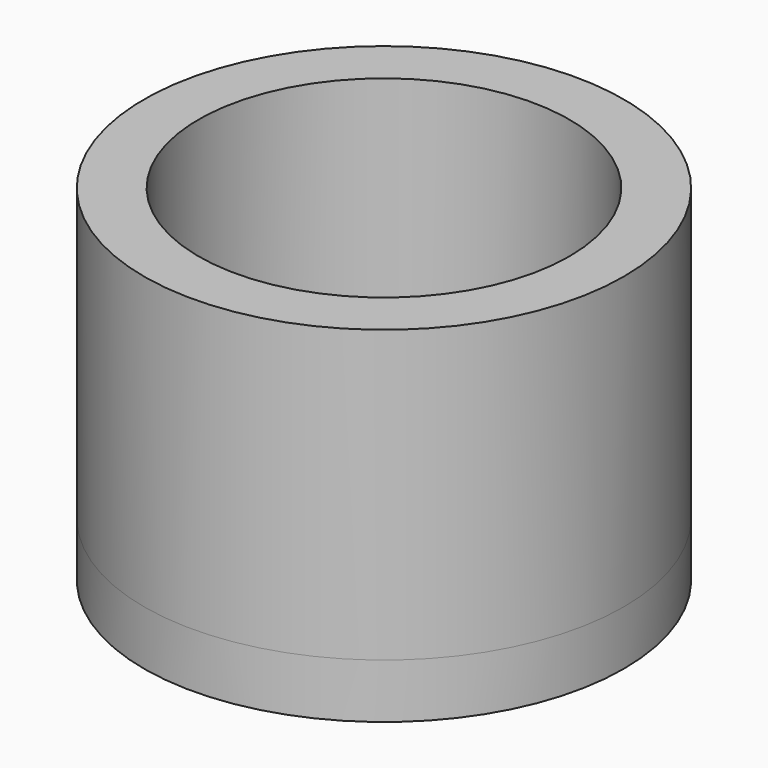
from build123d import *

# Parameters (mm, degrees)
F0_R     = 6.6
F0_R_2   = 5.1
F0_R_3   = 1.25
F1_DEPTH = 1.5
F2_DEPTH = 8


with BuildPart() as f1:
    # F0 (on Top) → F1 (new body)
    with BuildSketch(Plane.XY):
        Circle(F0_R)
        Circle(F0_R_2, mode=Mode.SUBTRACT)
        Circle(F0_R_2)
        with Locations((-2.5, -2.5)):
            Circle(F0_R_3, mode=Mode.SUBTRACT)
        with Locations((2.5, -2.5)):
            Circle(F0_R_3, mode=Mode.SUBTRACT)
        with Locations((-2.5, 2.5)):
            Circle(F0_R_3, mode=Mode.SUBTRACT)
        Circle(F0_R_3, mode=Mode.SUBTRACT)
        with Locations((2.5, 2.5)):
            Circle(F0_R_3, mode=Mode.SUBTRACT)
    extrude(amount=-F1_DEPTH)

    # F0 (on Top) → F2 (join)
    with BuildSketch(Plane.XY):
        Circle(F0_R)
        Circle(F0_R_2, mode=Mode.SUBTRACT)
    extrude(amount=F2_DEPTH)


solid = f1.part
